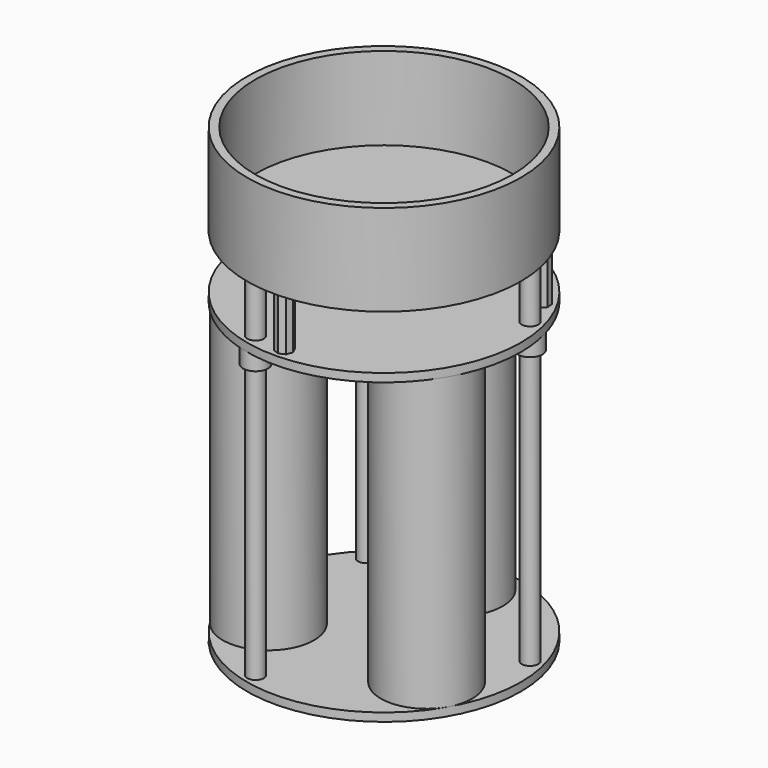
from build123d import *

# Parameters (mm, degrees)
SKETCH_R      = 33
PAD_DEPTH     = 2
SKETCH001_R   = 11
SKETCH001_R_2 = 9.5
SKETCH001_R_3 = 2.5
PAD001_DEPTH  = 70
SKETCH002_R   = 2
PAD002_DEPTH  = 70
SKETCH003_R   = 33
PAD003_DEPTH  = 2
SKETCH004_R   = 8.5
PAD004_DEPTH  = 2
SKETCH005_R   = 2
SKETCH005_R_2 = 2.5
PAD005_DEPTH  = 15
SKETCH007_R   = 3
SKETCH007_R_2 = 2.5
PAD007_DEPTH  = 4
SKETCH006_R   = 33
PAD006_DEPTH  = 2
SKETCH008_R   = 33
SKETCH008_R_2 = 31
PAD008_DEPTH  = 20


with BuildPart() as obj1:
    # Sketch → Pad (new body)
    with BuildSketch(Plane.XY):
        Circle(SKETCH_R)
    extrude(amount=PAD_DEPTH)

    # Sketch001 (on Face3 of Pad) → Pad001 (join)
    with BuildSketch(Plane.XY.offset(2)):
        with Locations((19.052537, -11.000037)):
            Circle(SKETCH001_R)
        with Locations((19.052537, -11.000037)):
            Circle(SKETCH001_R_2, mode=Mode.SUBTRACT)
        with Locations((-19.05256, -10.999998)):
            Circle(SKETCH001_R)
        with Locations((-19.05256, -10.999998)):
            Circle(SKETCH001_R_2, mode=Mode.SUBTRACT)
        with Locations((0, 22)):
            Circle(SKETCH001_R)
        with Locations((0, 22)):
            Circle(SKETCH001_R_2, mode=Mode.SUBTRACT)
        Circle(SKETCH001_R_3)
    extrude(amount=PAD001_DEPTH)

    # Sketch002 (on Face3 of Pad) → Pad002 (join)
    with BuildSketch(Plane.XY.offset(2)):
        with Locations((28.977775, 7.764571)):
            Circle(SKETCH002_R)
        with Locations((-21.213203, 21.213203)):
            Circle(SKETCH002_R)
        with Locations((-7.764571, -28.977775)):
            Circle(SKETCH002_R)
    extrude(amount=PAD002_DEPTH)


with BuildPart() as obj2:
    # Sketch003 (on ShapeBinder) → Pad003 (new body)
    with BuildSketch(Plane.XY.offset(72)):
        Circle(SKETCH003_R)
    extrude(amount=PAD003_DEPTH)

    # Sketch004 (on ShapeBinder) → Pad004 (join)
    with BuildSketch(Plane.XY.offset(72)):
        with Locations((-19.05256, -10.999998)):
            Circle(SKETCH004_R)
        with Locations((0, 22)):
            Circle(SKETCH004_R)
        with Locations((19.05256, -10.999998)):
            Circle(SKETCH004_R)
    extrude(amount=-PAD004_DEPTH)

    # Sketch005 (on ShapeBinder) → Pad005 (join)
    with BuildSketch(Plane.XY.offset(72)):
        with Locations((-7.764571, -28.977775)):
            Circle(SKETCH005_R)
        with Locations((28.977775, 7.764571)):
            Circle(SKETCH005_R)
        with Locations((-21.213203, 21.213203)):
            Circle(SKETCH005_R)
        Circle(SKETCH005_R_2)
        Polygon((1.366287, -28.539432), (-0.066667, -28.001111), (-1.460568, -28.633713), (-1.998889, -30.066667), (-1.366287, -31.460568), (0.066667, -31.998889), (1.460568, -31.366287), (1.998889, -29.933333), align=None)
        Polygon((27.745184, 15.941709), (26.562508, 16.913524), (25.039053, 16.764422), (24.067239, 15.581745), (24.21634, 14.058291), (25.399017, 13.086476), (26.922471, 13.235578), (27.894286, 14.418255), align=None)
        Polygon((-24.067239, 15.581745), (-25.039053, 16.764422), (-26.562508, 16.913524), (-27.745184, 15.941709), (-27.894286, 14.418255), (-26.922471, 13.235578), (-25.399017, 13.086476), (-24.21634, 14.058291), align=None)
    extrude(amount=PAD005_DEPTH)

    # Sketch007 (on Face1 of ShapeBinder002) → Pad007 (join)
    with BuildSketch(Plane.XY.offset(72)):
        with Locations((-7.764571, -28.977775)):
            Circle(SKETCH007_R)
        with Locations((-7.764571, -28.977775)):
            Circle(SKETCH007_R_2, mode=Mode.SUBTRACT)
        with Locations((-21.213203, 21.213203)):
            Circle(SKETCH007_R)
        with Locations((-21.213203, 21.213203)):
            Circle(SKETCH007_R_2, mode=Mode.SUBTRACT)
        with Locations((28.977775, 7.764571)):
            Circle(SKETCH007_R)
        with Locations((28.977775, 7.764571)):
            Circle(SKETCH007_R_2, mode=Mode.SUBTRACT)
    extrude(amount=-PAD007_DEPTH)


with BuildPart() as obj3:
    # Sketch006 (on ShapeBinder) → Pad006 (new body)
    with BuildSketch(Plane.XY.offset(87)):
        Circle(SKETCH006_R)
    extrude(amount=PAD006_DEPTH)

    # Sketch008 (on Face3 of Pad006) → Pad008 (join)
    with BuildSketch(Plane.XY.offset(89)):
        Circle(SKETCH008_R)
        Circle(SKETCH008_R_2, mode=Mode.SUBTRACT)
    extrude(amount=PAD008_DEPTH)


solid = Compound([obj1.part, obj2.part, obj3.part])
